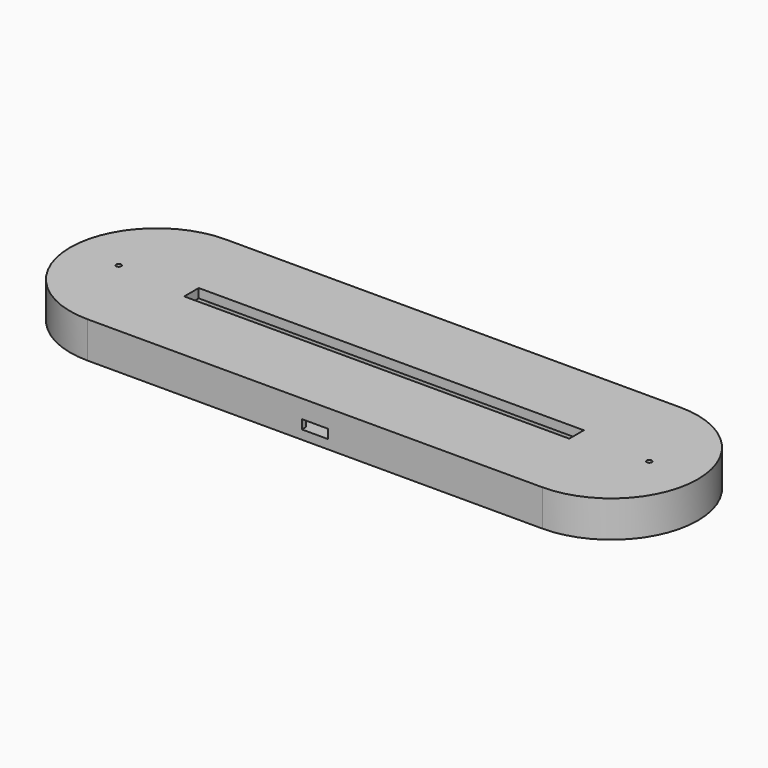
from build123d import *

# Parameters (mm, degrees)
PAD_DEPTH          = 6
POCKET_DEPTH       = 3
SKETCH002_W        = 18.4
SKETCH002_H        = 20.85
POCKET001_DEPTH    = 3
SKETCH003_W        = 8.55
SKETCH003_H        = 1.65
POCKET002_DEPTH    = 3
PAD001_DEPTH       = 3
SKETCH005_W        = 127
SKETCH005_H        = 6
PAD002_DEPTH       = 3
SKETCH006_R        = 0.825
POCKET003_DEPTH    = 442.080062
POLARPATTERN_COUNT = 2


with BuildPart() as part:
    # Sketch → Pad (new body)
    with BuildSketch(Plane.XY):
        with BuildLine():
            ThreePointArc((-75, 28.5), (-103.5, 0), (-75, -28.5))
            Line((-75, -28.5), (75, -28.5))
            ThreePointArc((75, -28.5), (103.5, 0), (75, 28.5))
            Line((-75, 28.5), (75, 28.5))
        make_face()
    extrude(amount=PAD_DEPTH)

    # Sketch001 (on Face6 of Pad) → Pocket (cut)
    with BuildSketch(Plane.XY.offset(6)):
        with BuildLine():
            ThreePointArc((-62.5, 6), (-68.5, 0), (-62.5, -6))
            Line((-62.5, -6), (62.5, -6))
            ThreePointArc((62.5, -6), (68.5, 0), (62.5, 6))
            Line((-62.5, 6), (62.5, 6))
        make_face()
    extrude(amount=-POCKET_DEPTH, mode=Mode.SUBTRACT)

    # Sketch002 (on Face5 of Pocket) → Pocket001 (cut)
    with BuildSketch(Plane.XY.offset(6)):
        with Locations((0, -16.425)):
            Rectangle(SKETCH002_W, SKETCH002_H)
    extrude(amount=-POCKET001_DEPTH, mode=Mode.SUBTRACT)

    # Sketch003 (on Face5 of Pocket001) → Pocket002 (cut)
    with BuildSketch(Plane.XY.offset(6)):
        with Locations((0, -27.675)):
            Rectangle(SKETCH003_W, SKETCH003_H)
    extrude(amount=-POCKET002_DEPTH, mode=Mode.SUBTRACT)

    # Sketch004 (on Face5 of Pocket002) → Pad001 (join)
    with BuildSketch(Plane.XY.offset(6)):
        with BuildLine():
            ThreePointArc((-75, 28.5), (-103.5, 0), (-75, -28.5))
            Line((-75, -28.5), (75, -28.5))
            ThreePointArc((75, -28.5), (103.5, 0), (75, 28.5))
            Line((-75, 28.5), (75, 28.5))
        make_face()
        with BuildLine():
            ThreePointArc((-62.5, 6), (-68.5, 0), (-62.5, -6))
            Line((-62.5, -6), (62.5, -6))
            ThreePointArc((62.5, -6), (68.5, 0), (62.5, 6))
            Line((-62.5, 6), (62.5, 6))
        make_face(mode=Mode.SUBTRACT)
    extrude(amount=PAD001_DEPTH)

    # Sketch005 (on Face12 of Pad001) → Pad002 (join)
    with BuildSketch(Plane.XY.offset(9)):
        with BuildLine():
            ThreePointArc((-75, 28.5), (-103.5, 0), (-75, -28.5))
            Line((-75, -28.5), (75, -28.5))
            ThreePointArc((75, -28.5), (103.5, 0), (75, 28.5))
            Line((-75, 28.5), (75, 28.5))
        make_face()
        Rectangle(SKETCH005_W, SKETCH005_H, mode=Mode.SUBTRACT)
    extrude(amount=PAD002_DEPTH)

    # Sketch006 (on Face20 of Pad002) → Pocket003 (cut, through all)
    with BuildSketch(Plane.XY.offset(12)):
        with Locations((-87.5, 0)):
            Circle(SKETCH006_R)
    pocket003 = extrude(amount=-POCKET003_DEPTH, mode=Mode.SUBTRACT)

    # PolarPattern: Pocket003 ×2 about axis
    polarpattern_axis = Axis((0, 0, 12), (0, 0, 1))
    for i in range(1, POLARPATTERN_COUNT):
        add(pocket003.rotate(polarpattern_axis, i * 360 / POLARPATTERN_COUNT), mode=Mode.SUBTRACT)


solid = part.part
